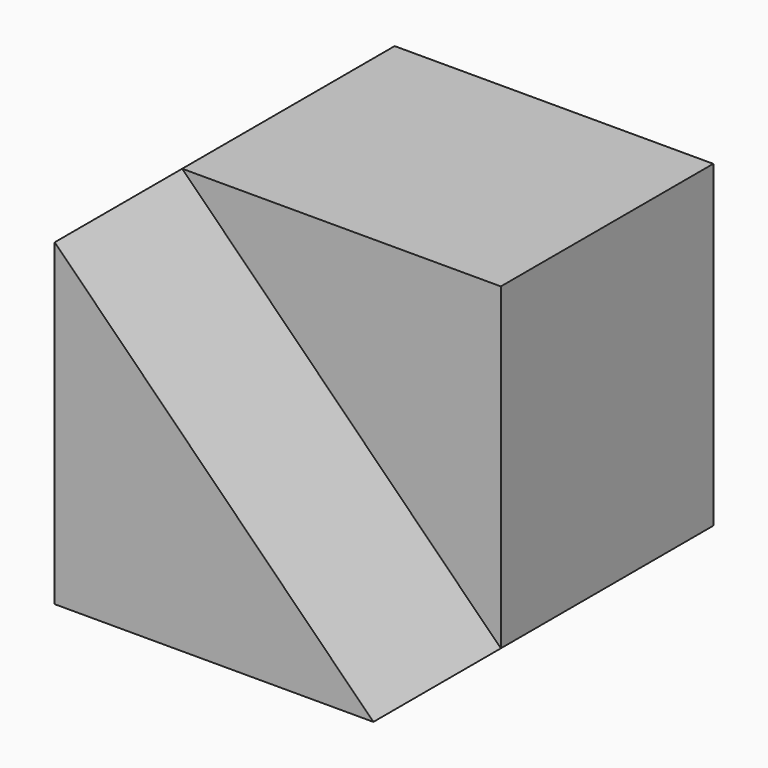
from build123d import *

# Parameters (mm, degrees)
F1_DEPTH = 15
F3_W     = 30
F3_H     = 30
F4_DEPTH = 25


with BuildPart() as f1:
    # F0 (on Front) → F1 (new body)
    with BuildSketch(Plane.XZ):
        Polygon((0, 30), (0, 0), (30, 0), align=None)
    extrude(amount=-F1_DEPTH)

    # F3 (on offset) → F4 (join)
    with BuildSketch(Plane.XZ.offset(-15)):
        with Locations((15, 15)):
            Rectangle(F3_W, F3_H)
    extrude(amount=-F4_DEPTH)


solid = f1.part
